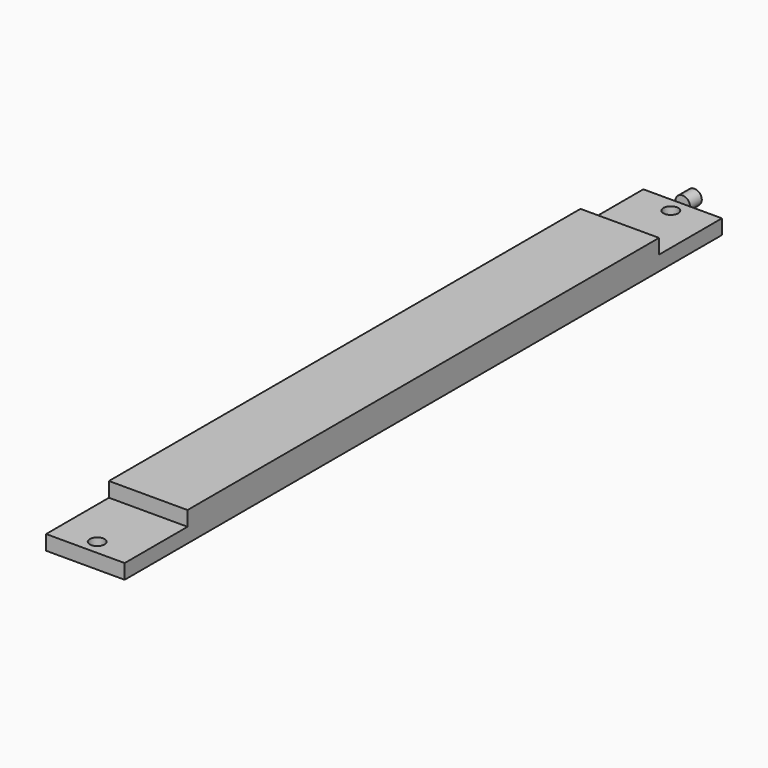
from build123d import *

# Parameters (mm, degrees)
F1_DEPTH = 25.4
F2_R     = 4.7625
F3_DEPTH = 25.4
F5_R     = 4.7625
F6_DEPTH = 9.525


with BuildPart() as f1:
    # F0 (on Right) → F1 (new body, symmetric)
    with BuildSketch(Plane.YZ):
        Polygon((0, -9.525), (482.6, -9.525), (482.6, 0), (431.8, 0), (431.8, 9.525), (50.8, 9.525), (50.8, 0), (0, 0), align=None)
    extrude(amount=F1_DEPTH, both=True)

    # F2 (on Top) → F3 (cut)
    with BuildSketch(Plane.XY):
        with Locations((0, 9.525)):
            Circle(F2_R)
        with Locations((0, 473.075)):
            Circle(F2_R)
    extrude(amount=-F3_DEPTH, mode=Mode.SUBTRACT)

    # F5 (on offset) → F6 (join)
    with BuildSketch(Plane.XZ.offset(-482.6)):
        Circle(F5_R)
    extrude(amount=-F6_DEPTH)


solid = f1.part
